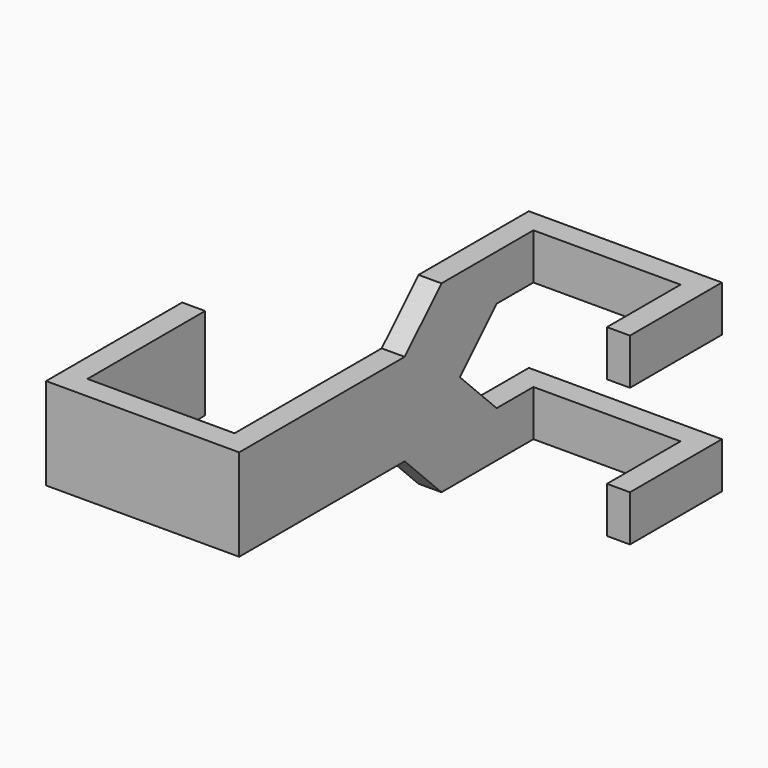
from build123d import *

# Parameters (mm, degrees)
F1_DEPTH = 5
F2_W     = 2.5
F2_H     = 2.5
F3_DEPTH = 5
F5_DEPTH = 2.5


with BuildPart() as f1:
    # F0 (on Top) → F1 (new body)
    with BuildSketch(Plane.XY):
        Polygon((-16, -30), (-16, 0), (-18.5, 0), (-18.5, -27.5), (-34.5, -27.5), (-34.5, -11.5), (-37, -11.5), (-37, -30), align=None)
    extrude(amount=F1_DEPTH)

    # F2 (on face) → F3 (join)
    with BuildSketch(Plane.XY.offset(5)):
        Polygon((2.5, 12.5), (-18.5, 12.5), (-18.5, 0), (-16, 0), (-16, 10), (0, 10), (0, 0), (2.5, 0), align=None)
        with Locations((-17.25, -1.25)):
            Rectangle(F2_W, F2_H)
    extrude(amount=F3_DEPTH)

    # F4 (on face) → F5 (join, through all)
    with BuildSketch(Plane(origin=(-18.5, 0, 0), x_dir=(0, -1, 0), z_dir=(-1, 0, 0))):
        Polygon((0, 5), (-5, 5), (0, 0), align=None)
        Polygon((7.5, 5), (2.5, 10), (2.5, 5), align=None)
    extrude(amount=-F5_DEPTH)

    # F6: F1 across plane


with BuildPart() as f1_1:
    add(f1.part)
    add(f1.part.mirror(Plane.XY))


solid = f1_1.part
